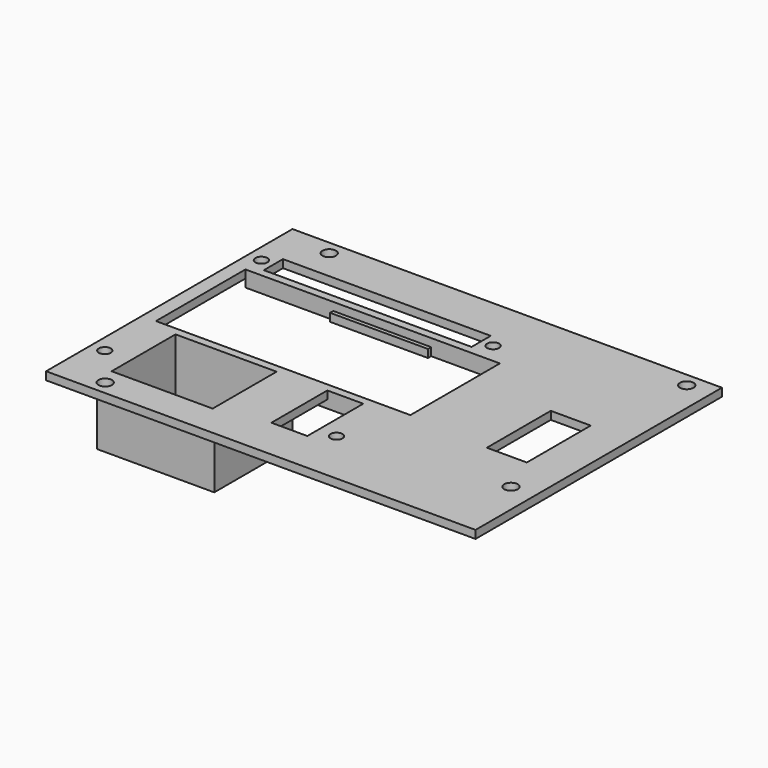
from build123d import *

# Parameters (mm, degrees)
SKETCH_W      = 107.5
SKETCH_H      = 77.1
SKETCH_R      = 1.7
SKETCH_R_2    = 1.5
SKETCH_W_2    = 63.7
SKETCH_H_2    = 28
SKETCH_W_3    = 25.3
SKETCH_H_3    = 20
SKETCH_W_4    = 52
SKETCH_H_4    = 6
SKETCH_W_5    = 10
SKETCH_W_6    = 9
SKETCH_H_5    = 17.5
PAD_DEPTH     = 2
PAD003_DEPTH  = 2
SKETCH005_W   = 29.3
SKETCH005_H   = 24.5
SKETCH005_W_2 = 25.3
SKETCH005_H_2 = 20
PAD004_DEPTH  = 13
SKETCH006_W   = 29.3
SKETCH006_H   = 24.5
PAD005_DEPTH  = 2


with BuildPart() as part:
    # Sketch (on XY_Plane of Origin) → Pad (new body)
    with BuildSketch(Plane.XY):
        with Locations((53.75, 38.55)):
            Rectangle(SKETCH_W, SKETCH_H)
        with Locations((12, 73.6)):
            Circle(SKETCH_R, mode=Mode.SUBTRACT)
        with Locations((12, 3.5)):
            Circle(SKETCH_R, mode=Mode.SUBTRACT)
        with Locations((101.5, 73.6)):
            Circle(SKETCH_R, mode=Mode.SUBTRACT)
        with Locations((101.5, 18.6)):
            Circle(SKETCH_R, mode=Mode.SUBTRACT)
        with Locations((61.5, 63)):
            Circle(SKETCH_R_2, mode=Mode.SUBTRACT)
        with Locations((61.5, 14)):
            Circle(SKETCH_R_2, mode=Mode.SUBTRACT)
        with Locations((3.5, 14)):
            Circle(SKETCH_R_2, mode=Mode.SUBTRACT)
        with Locations((3.5, 63)):
            Circle(SKETCH_R_2, mode=Mode.SUBTRACT)
        with Locations((35.35, 44)):
            Rectangle(SKETCH_W_2, SKETCH_H_2, mode=Mode.SUBTRACT)
        with Locations((22.65, 18)):
            Rectangle(SKETCH_W_3, SKETCH_H_3, mode=Mode.SUBTRACT)
        with Locations((32.5, 63)):
            Rectangle(SKETCH_W_4, SKETCH_H_4, mode=Mode.SUBTRACT)
        with Locations((92.5, 38.55)):
            Rectangle(SKETCH_W_5, SKETCH_H_3, mode=Mode.SUBTRACT)
        with Locations((52.5, 19.25)):
            Rectangle(SKETCH_W_6, SKETCH_H_5, mode=Mode.SUBTRACT)
    extrude(amount=PAD_DEPTH)

    # Sketch004 → Pad003 (join)
    with BuildSketch(Plane(origin=(0, 0, 0), x_dir=(1, 0, 0), z_dir=(0, 0, -1))):
        Polygon((3.5, -58), (3.5, -60), (67.2, -60), (67.2, -58), (50, -58), (50, -57), (25.5, -57), (25.5, -58), align=None)
        Polygon((67.2, -30), (67.2, -28), (3.5, -28), (3.5, -30.5), (25.5, -30.5), (25.5, -31.5), (50, -31.5), (50, -30), align=None)
    extrude(amount=PAD003_DEPTH)

    # Sketch005 (on Face4 of Pad003) → Pad004 (join)
    with BuildSketch(Plane(origin=(0, 0, 0), x_dir=(1, 0, 0), z_dir=(0, 0, -1))):
        with Locations((22.65, -18.25)):
            Rectangle(SKETCH005_W, SKETCH005_H)
        with Locations((22.65, -18)):
            Rectangle(SKETCH005_W_2, SKETCH005_H_2, mode=Mode.SUBTRACT)
    extrude(amount=PAD004_DEPTH)

    # Sketch006 (on Face48 of Pad004) → Pad005 (join)
    with BuildSketch(Plane(origin=(0, 0, -13), x_dir=(1, 0, 0), z_dir=(0, 0, -1))):
        with Locations((22.65, -18.25)):
            Rectangle(SKETCH006_W, SKETCH006_H)
    extrude(amount=PAD005_DEPTH)


solid = part.part
